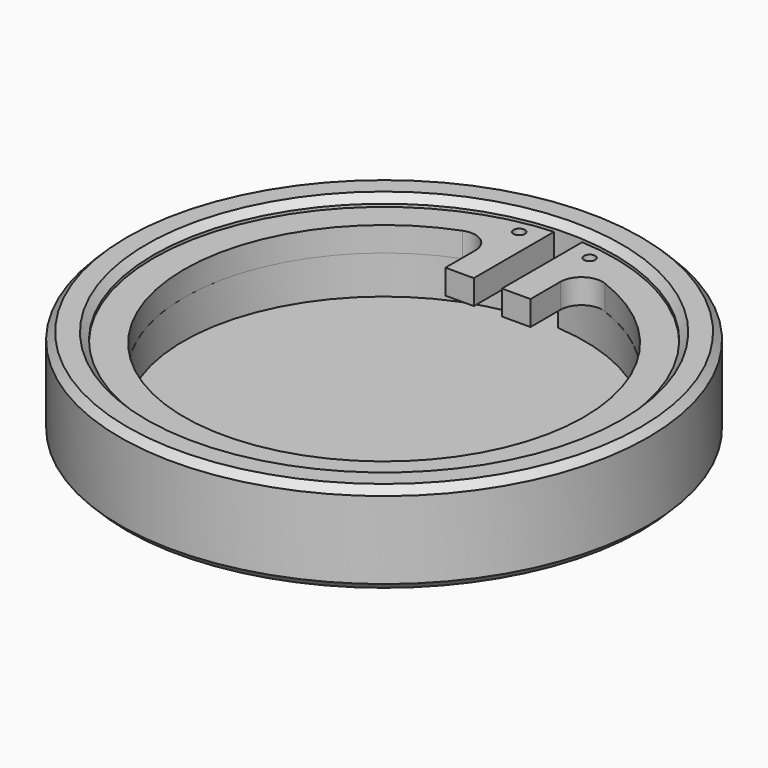
from build123d import *

# Parameters (mm, degrees)
F0_R      = 37.5
F1_DEPTH  = 13
F2_R      = 32.75
F3_DEPTH  = 11
F4_R      = 28.5
F5_DEPTH  = 25
F6_R      = 32.25
F7_DEPTH  = 0.6
F9_DEPTH  = 5.5
F11_DEPTH = 3.5
F12_SIZE  = 1
F13_R     = 0.8
F14_DEPTH = 3.5


with BuildPart() as f1:
    # F0 (on Top) → F1 (new body)
    with BuildSketch(Plane.XY):
        Circle(F0_R)
    extrude(amount=F1_DEPTH)

    # F2 (on face) → F3 (cut)
    with BuildSketch(Plane.XY.offset(13)):
        Circle(F2_R)
    extrude(amount=-F3_DEPTH, mode=Mode.SUBTRACT)

    # F4 (on face) → F5 (cut)
    with BuildSketch(Plane.XY.offset(2)):
        Circle(F4_R)
    extrude(amount=-F5_DEPTH, mode=Mode.SUBTRACT)

    # F12
    f12_edges = [f1.edges().sort_by_distance(p)[0] for p in [
        (-37.5, 0, 0),
        (-37.5, 0, 13),
        (-32.75, 0, 13),
        (-28.5, 0, 0),
    ]]
    chamfer(f12_edges, length=F12_SIZE)


with BuildPart() as f7:
    # F6 (on face) → F7 (new body)
    with BuildSketch(Plane.XY.offset(2)):
        Circle(F6_R)
    extrude(amount=F7_DEPTH)


with BuildPart() as f9:
    # F8 (on face) → F9 (new body)
    with BuildSketch(Plane.XY.offset(2.6)):
        with BuildLine():
            Line((-2, 28.429738), (-2, 32.939338))
            ThreePointArc((-2, 32.939338), (0, -33), (2, 32.939338))
            Line((2, 32.939338), (2, 28.429738))
            ThreePointArc((2, 28.429738), (0, -28.5), (-2, 28.429738))
        make_face()
    extrude(amount=F9_DEPTH)


with BuildPart() as f11:
    # F10 (on face) → F11 (new body)
    with BuildSketch(Plane.XY.offset(8.1)):
        with BuildLine():
            Line((-2, 28.429738), (-2, 32.783408))
            ThreePointArc((-2, 32.783408), (0, -32.844357), (2, 32.783408))
            Line((2, 32.783408), (2, 28.429738))
            Line((2, 28.429738), (2, 28.332556))
            Line((2, 28.332556), (2, 18.429738))
            Line((2, 18.429738), (6.054054, 18.429738))
            Line((6.054054, 18.429738), (6.054054, 23.734774))
            ThreePointArc((6.054054, 23.734774), (7.352252, 26.205376), (10.123301, 26.537757))
            ThreePointArc((10.123301, 26.537757), (-0.016756, -28.403054), (-10.091983, 26.549682))
            ThreePointArc((-10.091983, 26.549682), (-7.322785, 26.215037), (-6.026044, 23.74544))
            Line((-6.026044, 23.74544), (-6.026044, 18.429738))
            Line((-6.026044, 18.429738), (-2, 18.429738))
            Line((-2, 18.429738), (-2, 28.429738))
        make_face()
    extrude(amount=F11_DEPTH)

    # F13 (on face) → F14 (cut, through all)
    with BuildSketch(Plane.XY.offset(11.6)):
        with Locations((5, 30.246386)):
            Circle(F13_R)
        with Locations((-5, 30.246386)):
            Circle(F13_R)
    extrude(amount=-F14_DEPTH, mode=Mode.SUBTRACT)


solid = Compound([f1.part, f7.part, f9.part, f11.part])
